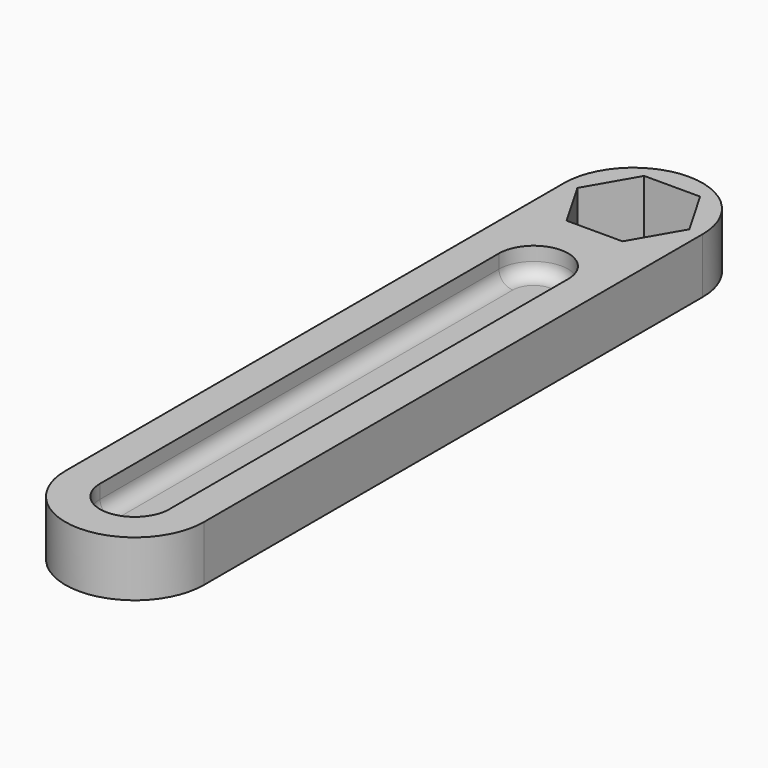
from build123d import *

# Parameters (mm, degrees)
F1_DEPTH = 4
F3_DEPTH = 2
F4_R     = 1


with BuildPart() as f1:
    # F0 (on Top) → F1 (new body)
    with BuildSketch(Plane.XY):
        with BuildLine():
            ThreePointArc((-5, 0), (0, -5), (5, 0))
            ThreePointArc((5, 0), (0, 5), (-5, 0))
        make_face()
        Polygon((-4.041452, 0), (-2.020726, 3.5), (2.020726, 3.5), (4.041452, 0), (2.020726, -3.5), (-2.020726, -3.5), align=None, mode=Mode.SUBTRACT)
        with BuildLine():
            Line((5, -45), (5, 0))
            ThreePointArc((5, 0), (0, -5), (-5, 0))
            Line((-5, 0), (-5, -45))
            ThreePointArc((-5, -45), (0, -50), (5, -45))
        make_face()
    extrude(amount=F1_DEPTH)

    # F2 (on face) → F3 (cut)
    with BuildSketch(Plane.XY.offset(4)):
        with BuildLine():
            ThreePointArc((2.5, -9), (0, -6.5), (-2.5, -9))
            Line((-2.5, -9), (-2.5, -45))
            ThreePointArc((-2.5, -45), (0, -47.5), (2.5, -45))
            Line((2.5, -45), (2.5, -9))
        make_face()
    extrude(amount=-F3_DEPTH, mode=Mode.SUBTRACT)

    # F4
    f4_edges = [f1.edges().sort_by_distance(p)[0] for p in [
        (0, -6.5, 2),
        (-2.5, -27, 2),
        (0, -47.5, 2),
        (2.5, -27, 2),
    ]]
    fillet(f4_edges, radius=F4_R)


solid = f1.part
